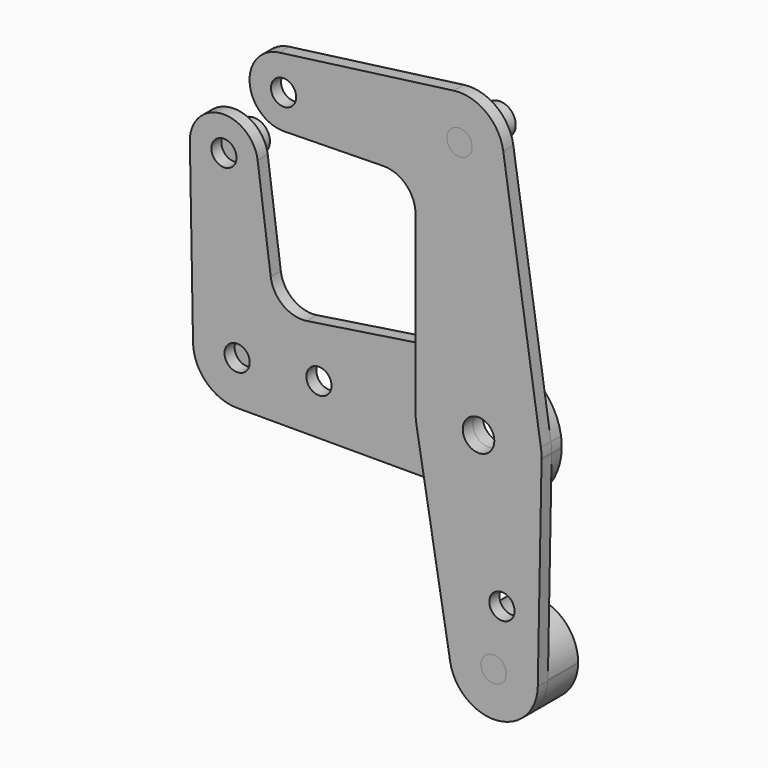
from build123d import *

# Parameters (mm, degrees)
F0_R     = 3.9751
F0_R_2   = 3.175
F1_DEPTH = 3.175
F2_DEPTH = 3.175
F3_R     = 3.175
F6_DEPTH = 12.7
F3_R_2   = 3.9751
F7_DEPTH = 12.7
F4_R     = 3.9751
F4_R_2   = 3.175
F8_DEPTH = 6.35
F9_DEPTH = 6.35


with BuildPart() as f1:
    # F0 (on Front) → F1 (new body)
    with BuildSketch(Plane.XZ):
        with BuildLine():
            ThreePointArc((-2.3745433357, 15.696406243), (9.4199796185, 12.7780909758), (15.69640625, 2.3745432898))
            Line((15.69640625, 2.3745432898), (6.224984375, 64.9833346965))
            ThreePointArc((6.224984375, 64.9833346965), (6.3187020189, 64.1545918937), (6.35, 63.3211543937))
            ThreePointArc((6.35, 63.3211543937), (-12.0838609408, 54.9614097669), (-6.227787217, 74.3366248612))
            Line((-6.227787217, 74.3366248612), (-50.2176725002, 68.4850530401))
            ThreePointArc((-50.2176725002, 68.4850530401), (-43.4394010641, 66.4363502486), (-40.5148080756, 59.9874043937))
            ThreePointArc((-40.5148080756, 59.9874043937), (-42.9716372644, 53.9802148029), (-48.9338986045, 51.4162771759))
            Line((-48.9338986045, 51.4162771759), (-23.9674730798, 51.8631362688))
            ThreePointArc((-23.9674730798, 51.8631362688), (-18.2540878758, 49.5859278087), (-15.875, 43.9142093972))
            Line((-15.875, 43.9142093972), (-15.875, 13.6540649408))
            Line((-15.875, 13.6540649408), (-2.3745433357, 15.696406243))
        make_face()
        with BuildLine():
            ThreePointArc((15.8721894623, -0.2987083423), (15.87429735, -0.1493607821), (15.875, 0))
            ThreePointArc((15.875, 0), (15.8302885984, 1.190625), (15.69640625, 2.3745432898))
            ThreePointArc((15.69640625, 2.3745432898), (9.4199796185, 12.7780909758), (-2.3745433357, 15.696406243))
            ThreePointArc((-2.3745433357, 15.696406243), (-12.0356034426, 10.3518053871), (-15.875, 0))
            ThreePointArc((-15.875, 0), (-15.8183858688, -1.3395124137), (-15.6489472748, -2.6694707699))
            ThreePointArc((-15.6489472748, -2.6694707699), (-10.238109604, -12.1324662265), (0, -15.875))
            ThreePointArc((0, -15.875), (11.1192092809, -11.3304373246), (15.8721894623, -0.2987083423))
        make_face()
        Circle(F0_R, mode=Mode.SUBTRACT)
        with BuildLine():
            Line((14.9205326236, -50.8660193546), (15.8721894623, -0.2987083423))
            ThreePointArc((15.8721894623, -0.2987083423), (11.1192092809, -11.3304373246), (0, -15.875))
            Line((0, -15.875), (-13.3962862068, -15.875))
            Line((-13.3962862068, -15.875), (-7.1442630923, -52.5255530539))
            ThreePointArc((-7.1442630923, -52.5255530539), (2.8723413104, -39.5840534068), (14.9225, -50.656923515))
            ThreePointArc((14.9225, -50.656923515), (14.922008145, -50.7614760624), (14.9205326236, -50.8660193546))
        make_face()
        with Locations((5.8951430199, -36.0471939817)):
            Circle(F0_R_2, mode=Mode.SUBTRACT)
        with BuildLine():
            ThreePointArc((-7.1442630923, -52.5255530539), (4.6434375, -61.7381255339), (14.9205326236, -50.8660193546))
            ThreePointArc((14.9205326236, -50.8660193546), (14.922008145, -50.7614760624), (14.9225, -50.656923515))
            ThreePointArc((14.9225, -50.656923515), (2.8723413104, -39.5840534068), (-7.1442630923, -52.5255530539))
        make_face()
        with Locations((3.81, -50.656923515)):
            Circle(F0_R_2, mode=Mode.SUBTRACT)
        with BuildLine():
            ThreePointArc((6.35, 63.3211543937), (6.3187020189, 64.1545918937), (6.224984375, 64.9833346965))
            ThreePointArc((6.224984375, 64.9833346965), (1.9112597279, 72.2064561525), (-6.227787217, 74.3366248612))
            ThreePointArc((-6.227787217, 74.3366248612), (-12.0838609408, 54.9614097669), (6.35, 63.3211543937))
        make_face()
        with Locations((-4.7625, 63.3211543937)):
            Circle(F0_R_2, mode=Mode.SUBTRACT)
        with BuildLine():
            ThreePointArc((-40.5148080756, 59.9874043937), (-43.4394010641, 66.4363502486), (-50.2176725002, 68.4850530401))
            ThreePointArc((-50.2176725002, 68.4850530401), (-57.6356639187, 59.3444668937), (-48.9338986045, 51.4162771759))
            ThreePointArc((-48.9338986045, 51.4162771759), (-42.9716372644, 53.9802148029), (-40.5148080756, 59.9874043937))
        make_face()
        with Locations((-49.0873080756, 59.9874043937)):
            Circle(F0_R_2, mode=Mode.SUBTRACT)
        with BuildLine():
            ThreePointArc((-15.875, 0), (-12.0356034426, 10.3518053871), (-2.3745433357, 15.696406243))
            Line((-2.3745433357, 15.696406243), (-15.875, 13.6540649408))
            Line((-15.875, 13.6540649408), (-15.875, 0))
        make_face()
        with BuildLine():
            Line((-13.3962862068, -15.875), (0, -15.875))
            ThreePointArc((0, -15.875), (-10.238109604, -12.1324662265), (-15.6489472748, -2.6694707699))
            Line((-15.6489472748, -2.6694707699), (-13.3962862068, -15.875))
        make_face()
    extrude(amount=F1_DEPTH)


with BuildPart() as f2:
    # F0 (on Front) → F2 (new body)
    with BuildSketch(Plane.XZ):
        with BuildLine():
            ThreePointArc((-15.6489472748, -2.6694707699), (-15.8183858688, -1.3395124137), (-15.875, 0))
            Line((-15.875, 0), (-15.875, 13.6540649408))
            Line((-15.875, 13.6540649408), (-45.7947178313, 9.1278272737))
            ThreePointArc((-45.7947178313, 9.1278272737), (-51.7584874989, 10.6317887797), (-54.864671411, 15.9402791832))
            Line((-54.864671411, 15.9402791832), (-58.1572557473, 40.6926725002))
            ThreePointArc((-58.1572557473, 40.6926725002), (-58.1011377008, 40.1287280738), (-58.0824043937, 39.5623080756))
            ThreePointArc((-58.0824043937, 39.5623080756), (-66.5781965871, 30.990151278), (-75.2260316115, 39.4088986045))
            Line((-75.2260316115, 39.4088986045), (-74.4318748612, -4.9613641292))
            ThreePointArc((-74.4318748612, -4.9613641292), (-63.4205904392, 6.349555108), (-52.2086543937, -4.7625))
            ThreePointArc((-52.2086543937, -4.7625), (-55.4634302878, -12.6202241059), (-63.3211543937, -15.875))
            Line((-63.3211543937, -15.875), (-13.3962862068, -15.875))
            Line((-13.3962862068, -15.875), (-15.6489472748, -2.6694707699))
        make_face()
        with Locations((-42.7291149849, -3.213735)):
            Circle(F0_R_2, mode=Mode.SUBTRACT)
        with BuildLine():
            ThreePointArc((-58.0824043937, 39.5623080756), (-58.1011377008, 40.1287280738), (-58.1572557473, 40.6926725002))
            ThreePointArc((-58.1572557473, 40.6926725002), (-67.2978418937, 48.1106639187), (-75.2260316115, 39.4088986045))
            ThreePointArc((-75.2260316115, 39.4088986045), (-66.5781965871, 30.990151278), (-58.0824043937, 39.5623080756))
        make_face()
        with Locations((-66.6549043937, 39.5623080756)):
            Circle(F0_R_2, mode=Mode.SUBTRACT)
        with BuildLine():
            ThreePointArc((-74.4318748612, -4.9613641292), (-71.1082520114, -12.6902214219), (-63.3211543937, -15.875))
            ThreePointArc((-63.3211543937, -15.875), (-55.4634302878, -12.6202241059), (-52.2086543937, -4.7625))
            ThreePointArc((-52.2086543937, -4.7625), (-63.4205904392, 6.349555108), (-74.4318748612, -4.9613641292))
        make_face()
        with Locations((-63.3211543937, -4.7625)):
            Circle(F0_R_2, mode=Mode.SUBTRACT)
        with BuildLine():
            ThreePointArc((-15.875, 0), (-12.0356034426, 10.3518053871), (-2.3745433357, 15.696406243))
            Line((-2.3745433357, 15.696406243), (-15.875, 13.6540649408))
            Line((-15.875, 13.6540649408), (-15.875, 0))
        make_face()
        with BuildLine():
            ThreePointArc((15.8721894623, -0.2987083423), (15.87429735, -0.1493607821), (15.875, 0))
            ThreePointArc((15.875, 0), (15.8302885984, 1.190625), (15.69640625, 2.3745432898))
            ThreePointArc((15.69640625, 2.3745432898), (9.4199796185, 12.7780909758), (-2.3745433357, 15.696406243))
            ThreePointArc((-2.3745433357, 15.696406243), (-12.0356034426, 10.3518053871), (-15.875, 0))
            ThreePointArc((-15.875, 0), (-15.8183858688, -1.3395124137), (-15.6489472748, -2.6694707699))
            ThreePointArc((-15.6489472748, -2.6694707699), (-10.238109604, -12.1324662265), (0, -15.875))
            ThreePointArc((0, -15.875), (11.1192092809, -11.3304373246), (15.8721894623, -0.2987083423))
        make_face()
        Circle(F0_R, mode=Mode.SUBTRACT)
        with BuildLine():
            Line((-13.3962862068, -15.875), (0, -15.875))
            ThreePointArc((0, -15.875), (-10.238109604, -12.1324662265), (-15.6489472748, -2.6694707699))
            Line((-15.6489472748, -2.6694707699), (-13.3962862068, -15.875))
        make_face()
    extrude(amount=-F2_DEPTH)


with BuildPart() as f6:
    # F3 (on face) → F6 (new body, through all)
    with BuildSketch(Plane.XZ.offset(3.175)):
        with BuildLine():
            ThreePointArc((14.9205326236, -50.8660193546), (14.922008145, -50.7614760624), (14.9225, -50.656923515))
            ThreePointArc((14.9225, -50.656923515), (2.8723413104, -39.5840534068), (-7.1442630923, -52.5255530539))
            ThreePointArc((-7.1442630923, -52.5255530539), (4.6434375, -61.7381255339), (14.9205326236, -50.8660193546))
        make_face()
        with Locations((3.81, -50.656923515)):
            Circle(F3_R, mode=Mode.SUBTRACT)
        with Locations((3.81, -50.656923515)):
            Circle(F3_R)
    extrude(amount=-F6_DEPTH)

    # F10: cut F1
    add(f1.part, mode=Mode.SUBTRACT)


with BuildPart() as f7:
    # F3 (on face) → F7 (new body, through all)
    with BuildSketch(Plane.XZ.offset(3.175)):
        with Locations((-4.7625, 63.3211543937)):
            Circle(F3_R_2)
        with Locations((-4.7625, 63.3211543937)):
            Circle(F3_R, mode=Mode.SUBTRACT)
        with Locations((-4.7625, 63.3211543937)):
            Circle(F3_R)
    extrude(amount=-F7_DEPTH)

    # F10: cut F1
    add(f1.part, mode=Mode.SUBTRACT)


with BuildPart() as f8:
    # F4 (on face) → F8 (new body, through all)
    with BuildSketch(Plane(origin=(0, 3.175, 0), x_dir=(-1, 0, 0), z_dir=(0, 1, 0))):
        with Locations((66.6549043937, 39.5623080756)):
            Circle(F4_R)
        with Locations((66.6549043937, 39.5623080756)):
            Circle(F4_R_2, mode=Mode.SUBTRACT)
        with Locations((66.6549043937, 39.5623080756)):
            Circle(F4_R_2)
    extrude(amount=F8_DEPTH)

    # F11: cut F2
    add(f2.part, mode=Mode.SUBTRACT)


with BuildPart() as f9:
    # F4 (on face) → F9 (new body, through all)
    with BuildSketch(Plane(origin=(0, 3.175, 0), x_dir=(-1, 0, 0), z_dir=(0, 1, 0))):
        with BuildLine():
            ThreePointArc((74.4318748612, -4.9613641292), (74.4332095017, -4.8619360455), (74.4336543937, -4.7625))
            ThreePointArc((74.4336543937, -4.7625), (65.3263635487, 6.1675865731), (52.9323194115, -0.8179133342))
            Line((52.9323194115, -0.8179133342), (63.2258644543, -15.8745914358))
            ThreePointArc((63.2258644543, -15.8745914358), (63.273508986, -15.8748978585), (63.3211543937, -15.875))
            ThreePointArc((63.3211543937, -15.875), (71.1082520114, -12.6902214219), (74.4318748612, -4.9613641292))
        make_face()
        with Locations((63.3211543937, -4.7625)):
            Circle(F4_R_2, mode=Mode.SUBTRACT)
        with Locations((63.3211543937, -4.7625)):
            Circle(F4_R_2)
    extrude(amount=F9_DEPTH)

    # F11: cut F2
    add(f2.part, mode=Mode.SUBTRACT)


solid = Compound([f1.part, f2.part, f6.part, f7.part, f8.part, f9.part])
